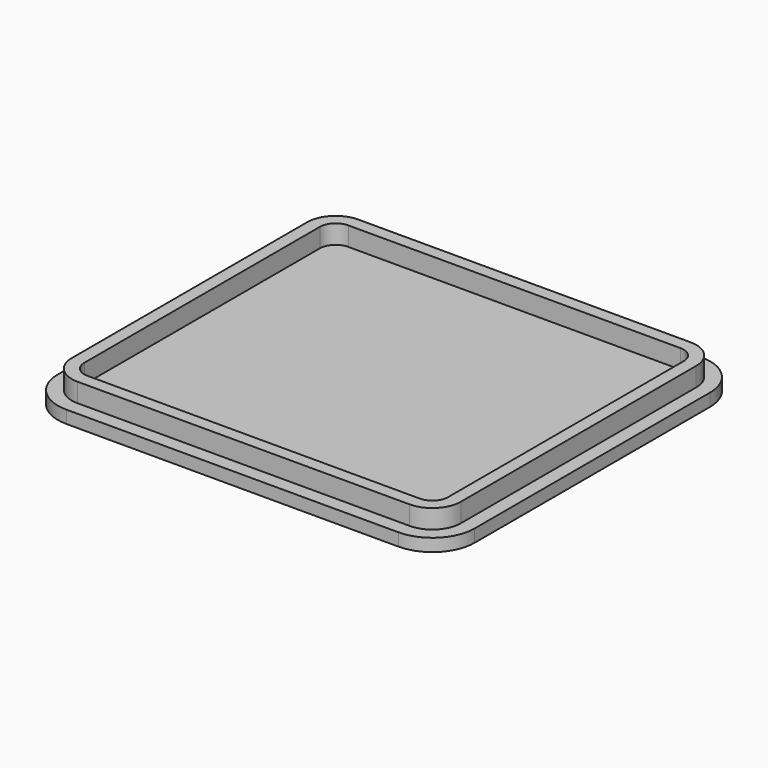
from build123d import *

# Parameters (mm, degrees)
EXTRUDE_DEPTH    = 2
EXTRUDE001_DEPTH = 5
THICKNESS_T      = -2


with BuildPart() as base:
    # Sketch → Extrude (new body)
    with BuildSketch(Plane.XY):
        with BuildLine():
            Line((6.7, 0), (59.3, 0))
            ThreePointArc((59.3, 0), (64.037615, 1.962385), (66, 6.7))
            Line((66, 6.7), (66, 53.3))
            ThreePointArc((66, 53.3), (64.037615, 58.037615), (59.3, 60))
            Line((59.3, 60), (6.7, 60))
            ThreePointArc((6.7, 60), (1.962385, 58.037615), (0, 53.3))
            Line((0, 53.3), (0, 6.7))
            ThreePointArc((0, 6.7), (1.962385, 1.962385), (6.7, 0))
        make_face()
    extrude(amount=EXTRUDE_DEPTH)


with BuildPart() as thickness:
    # Sketch001 → Extrude001 (new body)
    with BuildSketch(Plane.XY):
        with BuildLine():
            Line((6.7, 57.8), (59.3, 57.8))
            ThreePointArc((63.8, 53.3), (62.481981, 56.481981), (59.3, 57.8))
            Line((63.8, 53.3), (63.8, 6.7))
            ThreePointArc((59.3, 2.2), (62.481981, 3.518019), (63.8, 6.7))
            Line((59.3, 2.2), (6.7, 2.2))
            ThreePointArc((2.2, 6.7), (3.518019, 3.518019), (6.7, 2.2))
            Line((2.2, 6.7), (2.2, 53.3))
            ThreePointArc((6.7, 57.8), (3.518019, 56.481981), (2.2, 53.3))
        make_face()
    extrude(amount=EXTRUDE001_DEPTH)

    # Thickness
    thickness_openings = [thickness.faces().sort_by_distance(p)[0] for p in [
        (33, 30, 5),
    ]]
    offset(amount=THICKNESS_T, openings=thickness_openings)


solid = Compound([base.part, thickness.part])
